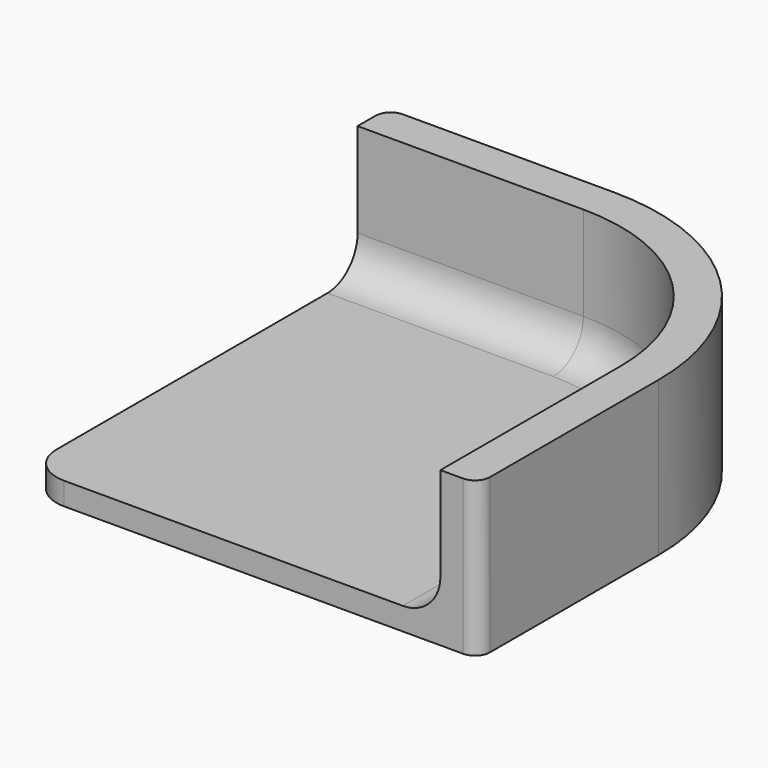
from build123d import *

# Parameters (mm, degrees)
F1_DEPTH = 3
F3_DEPTH = 17.5
F4_R     = 5
F5_R     = 2
F6_R     = 2
F7_R     = 5


with BuildPart() as f1:
    # F0 (on Top) → F1 (new body)
    with BuildSketch(Plane.XY):
        with BuildLine():
            Line((30, 0), (0, 0))
            Line((0, 0), (0, -60))
            Line((0, -60), (60, -60))
            Line((60, -60), (60, -30))
            ThreePointArc((60, -30), (51.2132034356, -8.7867965644), (30, 0))
        make_face()
    extrude(amount=F1_DEPTH)

    # F2 (on face) → F3 (join)
    with BuildSketch(Plane.XY.offset(3)):
        with BuildLine():
            Line((30, 0), (0, 0))
            Line((0, 0), (0, -5))
            Line((0, -5), (30, -5))
            ThreePointArc((30, -5), (47.6776695297, -12.3223304703), (55, -30))
            Line((55, -30), (55, -60))
            Line((55, -60), (60, -60))
            Line((60, -60), (60, -30))
            ThreePointArc((60, -30), (51.2132034356, -8.7867965644), (30, 0))
        make_face()
    extrude(amount=F3_DEPTH)

    # F4
    f4_edges = [f1.edges().sort_by_distance(p)[0] for p in [
        (0, -60, 1.5),
    ]]
    fillet(f4_edges, radius=F4_R)

    # F5
    f5_edges = [f1.edges().sort_by_distance(p)[0] for p in [
        (0, 0, 10.25),
    ]]
    fillet(f5_edges, radius=F5_R)

    # F6
    f6_edges = [f1.edges().sort_by_distance(p)[0] for p in [
        (60, -60, 10.25),
    ]]
    fillet(f6_edges, radius=F6_R)

    # F7
    f7_edges = [f1.edges().sort_by_distance(p)[0] for p in [
        (15, -5, 3),
        (47.67767, -12.32233, 3),
        (55, -45, 3),
    ]]
    fillet(f7_edges, radius=F7_R)


solid = f1.part
